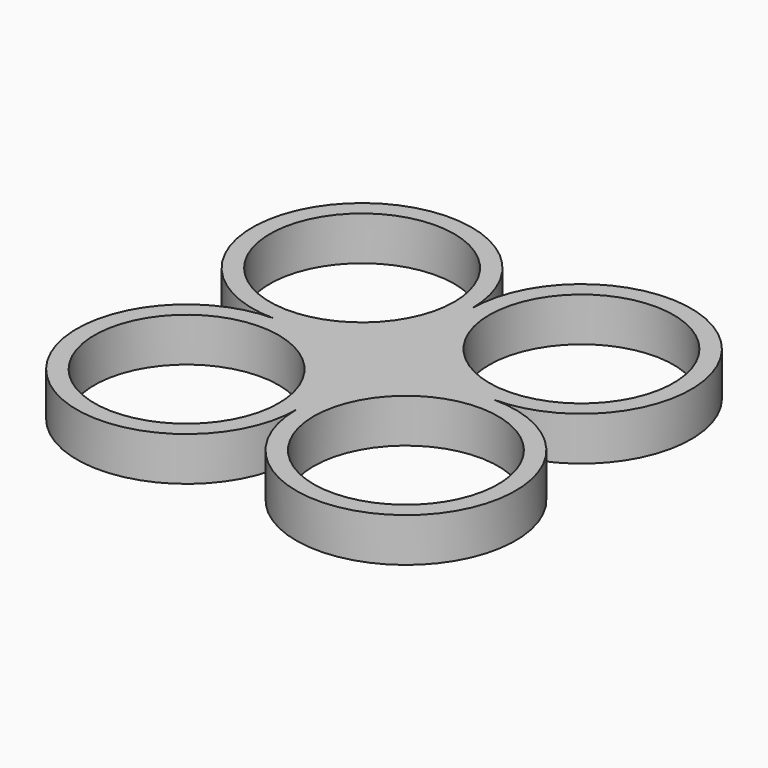
from build123d import *

# Parameters (mm, degrees)
F0_R     = 13.335
F1_DEPTH = 6.35


with BuildPart() as f1:
    # F0 (on Top) → F1 (new body)
    with BuildSketch(Plane.XY):
        with BuildLine():
            Line((0, 0), (0, 15.875))
            ThreePointArc((0, 15.875), (-27.10032, 27.10032), (-15.875, 0))
            Line((-15.875, 0), (0, 0))
        make_face()
        with Locations((-15.875, 15.875)):
            Circle(F0_R, mode=Mode.SUBTRACT)
    extrude(amount=F1_DEPTH)

    # F2: F1 across plane


with BuildPart() as f1_1:
    add(f1.part)
    add(f1.part.mirror(Plane.YZ))

    # F3: F1 across plane


with BuildPart() as f1_2:
    add(f1_1.part)
    add(f1_1.part.mirror(Plane.XZ))


solid = f1_2.part
